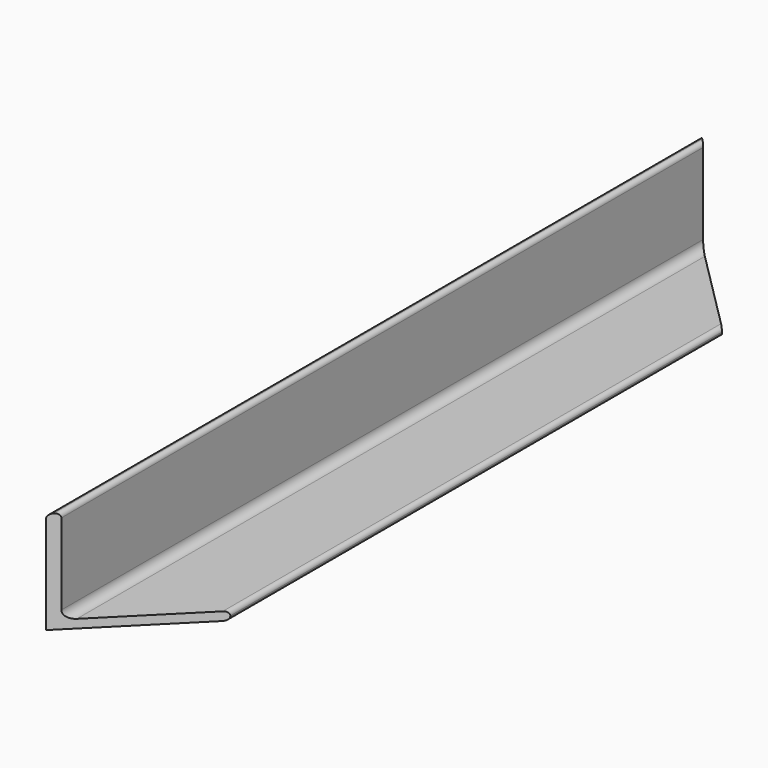
from build123d import *

# Parameters (mm, degrees)
F1_DEPTH = 152.4
F3_DEPTH = 19.051


with BuildPart() as f1:
    # F0 (on Front) → F1 (new body)
    with BuildSketch(Plane.XZ):
        with BuildLine():
            Line((0, 18.25625), (0, 0))
            Line((0, 0), (18.25625, 0))
            ThreePointArc((18.25625, 0), (18.817516, 0.232484), (19.05, 0.79375))
            ThreePointArc((19.05, 0.79375), (18.817516, 1.355016), (18.25625, 1.5875))
            Line((18.25625, 1.5875), (3.175, 1.5875))
            ThreePointArc((3.175, 1.5875), (2.052468, 2.052468), (1.5875, 3.175))
            Line((1.5875, 3.175), (1.5875, 18.25625))
            ThreePointArc((1.5875, 18.25625), (1.355016, 18.817516), (0.79375, 19.05))
            ThreePointArc((0.79375, 19.05), (0.232484, 18.817516), (0, 18.25625))
        make_face()
    extrude(amount=F1_DEPTH)

    # F2 (on Top) → F3 (cut, through all)
    with BuildSketch(Plane.XY):
        Polygon((30.352743, 0), (0, 0), (29.697519, -29.697519), align=None)
        Polygon((26.3398, -126.0602), (0, -152.4), (26.3398, -152.4), align=None)
    extrude(amount=F3_DEPTH, mode=Mode.SUBTRACT)


solid = f1.part
